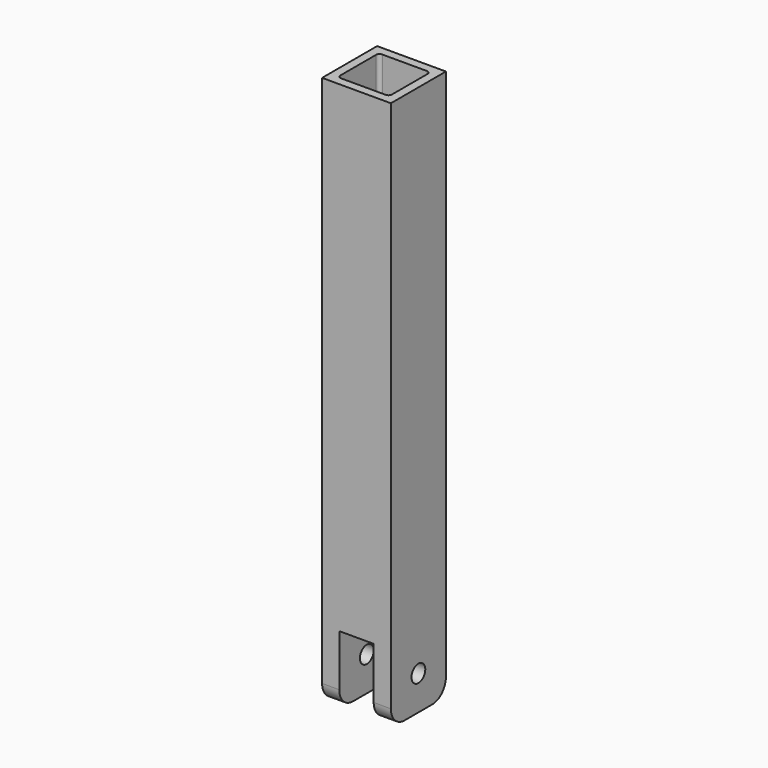
from build123d import *

# Parameters (mm, degrees)
F0_W     = 200
F0_H     = 1600
F1_DEPTH = 200
F2_W     = 100
F2_H     = 200
F3_DEPTH = 400
F4_W     = 150
F4_H     = 150
F5_DEPTH = 500
F6_R     = 25
F7_DEPTH = 300
F8_R     = 10
F9_R     = 50


with BuildPart() as f1:
    # F0 (on Right) → F1 (new body)
    with BuildSketch(Plane.YZ):
        with Locations((100, 800)):
            Rectangle(F0_W, F0_H)
    extrude(amount=F1_DEPTH)

    # F2 (on face) → F3 (cut)
    with BuildSketch(Plane(origin=(0, 200, 0), x_dir=(-1, 0, 0), z_dir=(0, 1, 0))):
        with Locations((-100, 100)):
            Rectangle(F2_W, F2_H)
    extrude(amount=-F3_DEPTH, mode=Mode.SUBTRACT)

    # F4 (on face) → F5 (cut)
    with BuildSketch(Plane.XY.offset(1600)):
        with Locations((100, 100)):
            Rectangle(F4_W, F4_H)
    extrude(amount=-F5_DEPTH, mode=Mode.SUBTRACT)

    # F6 (on face) → F7 (cut)
    with BuildSketch(Plane(origin=(0, 0, 0), x_dir=(0, -1, 0), z_dir=(-1, 0, 0))):
        with Locations((-100, 100)):
            Circle(F6_R)
    extrude(amount=-F7_DEPTH, mode=Mode.SUBTRACT)

    # F8
    f8_edges = [f1.edges().sort_by_distance(p)[0] for p in [
        (25, 175, 1350),
        (175, 175, 1350),
        (25, 25, 1350),
        (175, 25, 1350),
    ]]
    fillet(f8_edges, radius=F8_R)

    # F9
    f9_edges = [f1.edges().sort_by_distance(p)[0] for p in [
        (175, 200, 0),
        (25, 200, 0),
        (25, 0, 0),
        (175, 0, 0),
    ]]
    fillet(f9_edges, radius=F9_R)


solid = f1.part
